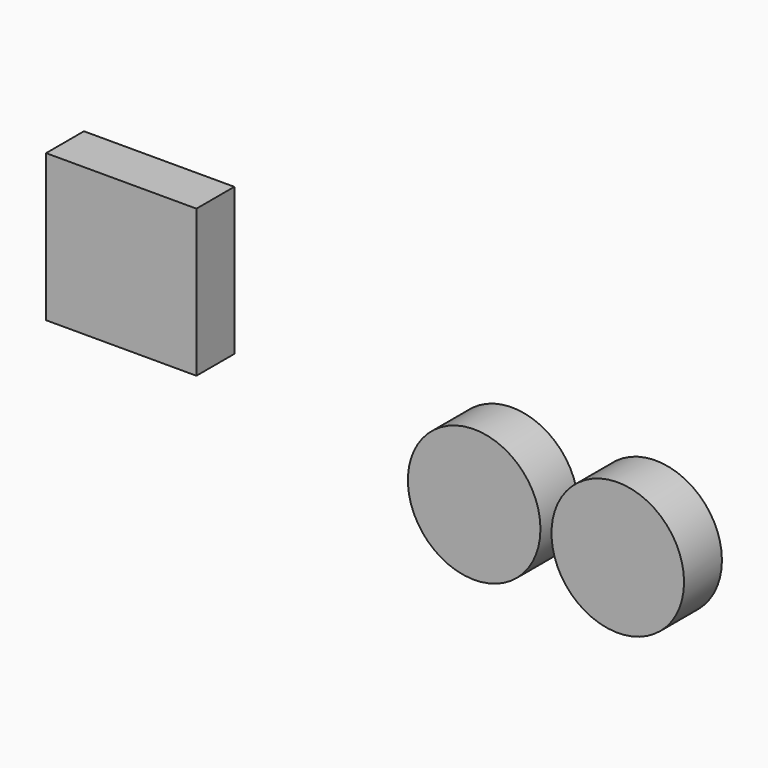
from build123d import *

# Parameters (mm, degrees)
F0_R     = 35.5641883482
F1_DEPTH = 25.4
F3_W     = 80.6732773781
F3_H     = 78.9421647787
F4_DEPTH = 25.4


with BuildPart() as f1:
    # F0 (on Front) → F1 (new body)
    with BuildSketch(Plane.XZ):
        with Locations((-38.5229067204, 22.241210565)):
            Circle(F0_R)
    extrude(amount=F1_DEPTH)


with BuildPart() as f1b:
    # F0 (on Front) → F1, piece 2 (new body)
    with BuildSketch(Plane.XZ):
        with Locations((38.5229067204, 22.241210565)):
            Circle(F0_R)
    extrude(amount=F1_DEPTH)


with BuildPart() as f1c:
    # F0 (on Front) → F1, piece 3 (new body)
    with BuildSketch(Plane.XZ):
        with Locations((0, -44.4824211299)):
            Circle(F0_R)
    extrude(amount=F1_DEPTH)


with BuildPart() as f4:
    # F3 (on Front) → F4 (new body)
    with BuildSketch(Plane.XZ):
        with Locations((-227.8779149055, 74.0809887648)):
            Rectangle(F3_W, F3_H)
    extrude(amount=F4_DEPTH)


solid = Compound([f1.part, f1b.part, f4.part])
